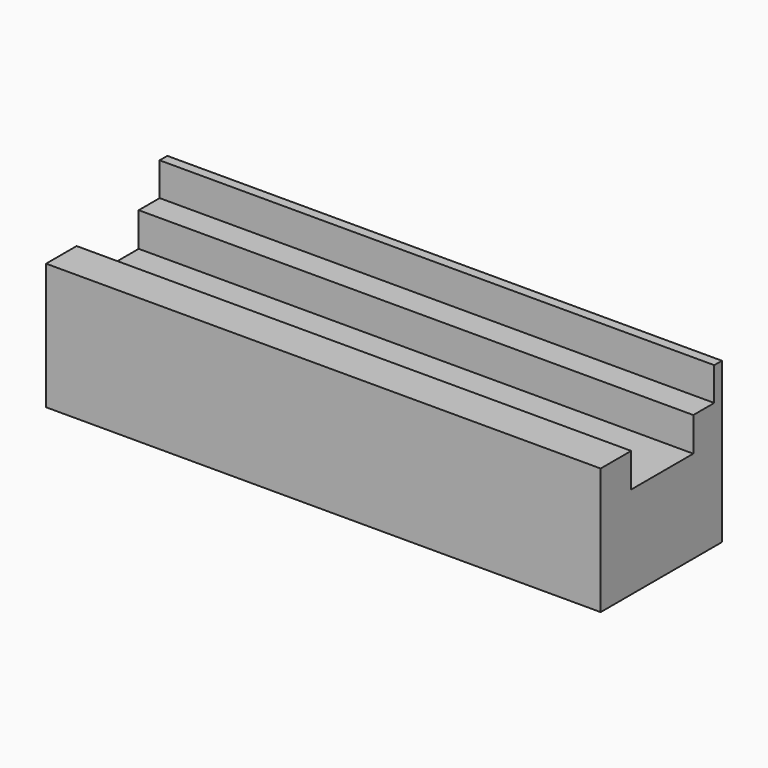
from build123d import *

# Parameters (mm, degrees)
F0_W     = 190.5
F0_H     = 21.746124
F1_DEPTH = 54.864
F3_W     = 190.5
F3_H     = 18.542
F4_DEPTH = 11.43
F6_W     = 190.5
F6_H     = 52.07
F7_DEPTH = 43.434
F8_W     = 190.5
F8_H     = 26.67
F9_DEPTH = 23.114


with BuildPart() as f1:
    # F0 (on Top) → F1 (new body)
    with BuildSketch(Plane.XY):
        Rectangle(F0_W, F0_H)
    extrude(amount=F1_DEPTH)

    # F3 (on face) → F4 (cut)
    with BuildSketch(Plane.XY.offset(54.864)):
        with Locations((0, -1.699938)):
            Rectangle(F3_W, F3_H)
    extrude(amount=-F4_DEPTH, mode=Mode.SUBTRACT)

    # F6 (on Top) → F7 (join)
    with BuildSketch(Plane.XY):
        with Locations((0, -15.161938)):
            Rectangle(F6_W, F6_H)
    extrude(amount=F7_DEPTH)

    # F8 (on face) → F9 (cut)
    with BuildSketch(Plane.XY.offset(54.864)):
        with Locations((0, -14.755538)):
            Rectangle(F8_W, F8_H)
    extrude(amount=-F9_DEPTH, mode=Mode.SUBTRACT)


solid = f1.part
